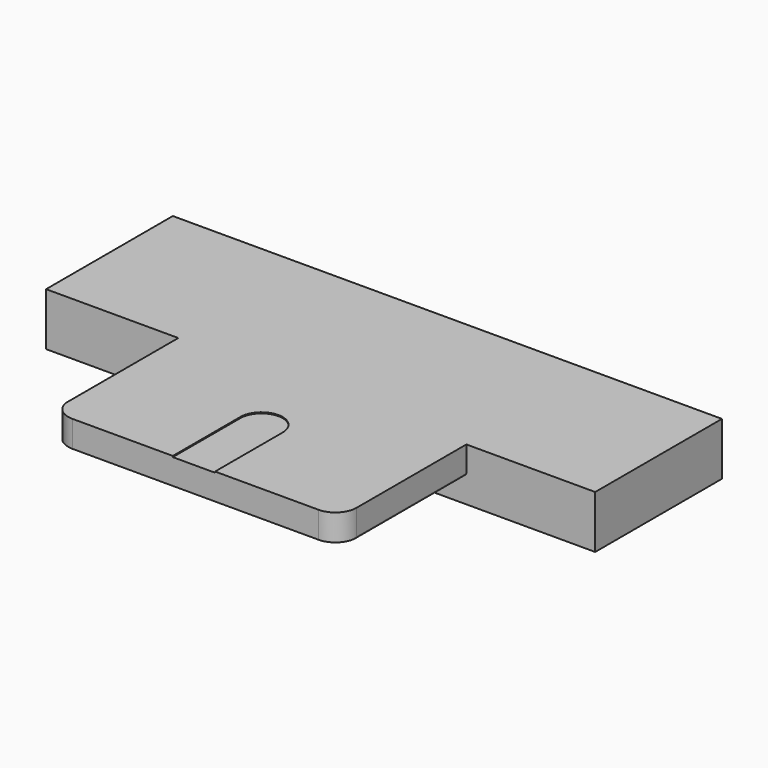
from build123d import *

# Parameters (mm, degrees)
BOX033_W          = 27.28
BOX033_H          = 15
BOX033_DEPTH      = 2.4
BOX031_W          = 10
BOX031_H          = 15
BOX031_DEPTH      = 5
BOX032_W          = 10
BOX032_H          = 15
BOX032_DEPTH      = 5
BOX030_W          = 4
BOX030_H          = 16
BOX030_DEPTH      = 10
CYLINDER023_R     = 2
CYLINDER023_DEPTH = 10
BOX029_W          = 8.2
BOX029_H          = 15
BOX029_DEPTH      = 10
BOX028_W          = 8.52
BOX028_H          = 15
BOX028_DEPTH      = 10
BOX027_W          = 44
BOX027_H          = 15
BOX027_DEPTH      = 2.6
BOX026_W          = 44
BOX026_H          = 30
BOX026_DEPTH      = 5
FILLET006_R       = 2


with BuildPart() as cube033:
    # Box033 → Box033 (new body)
    with BuildSketch(Plane(origin=(8.5, 21, 2.5), x_dir=(1, 0, 0), z_dir=(0, 0, 1))):
        with Locations((13.64, 7.5)):
            Rectangle(BOX033_W, BOX033_H)
    extrude(amount=BOX033_DEPTH)


with BuildPart() as cube031:
    # Box031 → Box031 (new body)
    with BuildSketch(Plane(origin=(-4, 36, 0), x_dir=(1, 0, 0), z_dir=(0, 0, 1))):
        with Locations((5, 7.5)):
            Rectangle(BOX031_W, BOX031_H)
    extrude(amount=BOX031_DEPTH)


with BuildPart() as cube032:
    # Box032 → Box032 (new body)
    with BuildSketch(Plane(origin=(38, 36, 0), x_dir=(1, 0, 0), z_dir=(0, 0, 1))):
        with Locations((5, 7.5)):
            Rectangle(BOX032_W, BOX032_H)
    extrude(amount=BOX032_DEPTH)


with BuildPart() as cube030:
    # Box030 → Box030 (new body)
    with BuildSketch(Plane(origin=(20, -8, 0), x_dir=(1, 0, 0), z_dir=(0, 0, 1))):
        with Locations((2, 8)):
            Rectangle(BOX030_W, BOX030_H)
    extrude(amount=BOX030_DEPTH)


with BuildPart() as fusion024:
    # Cylinder023 → Cylinder023 (new body)
    with BuildSketch(Plane(origin=(22, 8, 0), x_dir=(1, 0, 0), z_dir=(0, 0, 1))):
        Circle(CYLINDER023_R)
    extrude(amount=CYLINDER023_DEPTH)

    # Fusion024: union Cube030
    add(cube030.part)


with BuildPart() as cube029:
    # Box029 → Box029 (new body)
    with BuildSketch(Plane(origin=(35.8, 0, 0), x_dir=(1, 0, 0), z_dir=(0, 0, 1))):
        with Locations((4.1, 7.5)):
            Rectangle(BOX029_W, BOX029_H)
    extrude(amount=BOX029_DEPTH)


with BuildPart() as cube028:
    # Box028 → Box028 (new body)
    with BuildSketch(Plane.XY):
        with Locations((4.26, 7.5)):
            Rectangle(BOX028_W, BOX028_H)
    extrude(amount=BOX028_DEPTH)


with BuildPart() as cube027:
    # Box027 → Box027 (new body)
    with BuildSketch(Plane.XY):
        with Locations((22, 7.5)):
            Rectangle(BOX027_W, BOX027_H)
    extrude(amount=BOX027_DEPTH)


with BuildPart() as exterior_parte2_v2_base:
    # Box026 → Box026 (new body)
    with BuildSketch(Plane.XY):
        with Locations((22, 15)):
            Rectangle(BOX026_W, BOX026_H)
    extrude(amount=BOX026_DEPTH)

    # Cut007002012: cut Cube027
    add(cube027.part, mode=Mode.SUBTRACT)

    # Cut007002013: cut Cube028
    add(cube028.part, mode=Mode.SUBTRACT)

    # Cut007002014: cut Cube029
    add(cube029.part, mode=Mode.SUBTRACT)

    # Cut007002015: cut Fusion024
    add(fusion024.part, mode=Mode.SUBTRACT)


with BuildPart() as exterior_parte2_v2_base_1:
    # Cut007002015 placement: moved
    add(exterior_parte2_v2_base.part.moved(Location((0, 21, 0))))

    # Fusion025: union Cube031, Cube032
    add(cube031.part)
    add(cube032.part)

    # Fusion026: union Cube033
    add(cube033.part)

    # Fillet006
    fillet006_edges = [exterior_parte2_v2_base_1.edges().sort_by_distance(p)[0] for p in [
        (8.5, 21, 3.7),
        (35.8, 21, 3.8),
    ]]
    fillet(fillet006_edges, radius=FILLET006_R)


with BuildPart() as exterior_parte2_v2_base_2:
    # Fillet006 placement: moved
    add(exterior_parte2_v2_base_1.part.moved(Location((0, -12, 0.05))))


solid = exterior_parte2_v2_base_2.part
